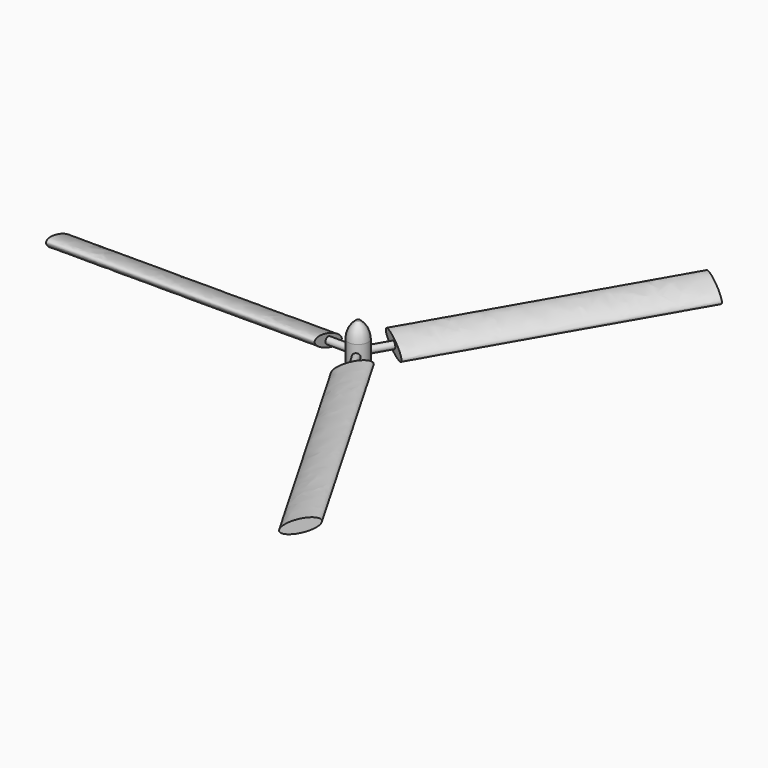
from build123d import *

# Parameters (mm, degrees)
F4_DEPTH = 135
F5_R     = 1.745374
F6_DEPTH = 15
F7_COUNT = 3
F7_ANGLE = 240
F9_DEPTH = 10


with BuildPart() as f1:
    # F0 (on Right) → F1 (revolve)
    with BuildSketch(Plane.YZ):
        with BuildLine():
            Line((0, 19.977013), (0, 0))
            Line((0, 0), (5, 0))
            Line((5, 0), (5, 11.602768))
            ThreePointArc((5, 11.602768), (3.918744, 16.125599), (0.9088, 19.670363))
            ThreePointArc((0.9088, 19.670363), (0.479571, 19.898285), (0, 19.977013))
        make_face()
    revolve(axis=Axis((0, 0, 10), (0, 0, 1)))



with BuildPart() as f4:
    # F3 (on offset) → F4 (new body)
    with BuildSketch(Plane.YZ.offset(-150)):
        with BuildLine():
            add(Edge.make_bspline(
                [(8.457234, 2.947047), (10.25751, 7.893267), (-3.328478, 10.037429), (-16.914467, 12.181591), (-5.128755, 5.091209), (6.656957, -1.999172), (8.457234, 2.947047)],
                knots=[0, 0, 0, 2.094395, 2.094395, 4.18879, 4.18879, 6.283185, 6.283185, 6.283185], degree=2, weights=[1, 0.5, 1, 0.5, 1, 0.5, 1]))
        make_face()
    extrude(amount=F4_DEPTH)


with BuildPart() as f1_1:
    add(f1.part)

    add(f4.part)  # F6 merges F4
    # F5 (on face) → F6 (join)
    with BuildSketch(Plane.YZ.offset(-15)):
        with Locations((0, 6.025229)):
            Circle(F5_R)
    extrude(amount=F6_DEPTH)

    # F7: F1 ×3 about axis
    f7_axis = Axis((0, 0, 0), (0, 0, 1))


with BuildPart() as f1_2:
    add(f1_1.part)
    for i in range(1, F7_COUNT):
        add(f1_1.part.rotate(f7_axis, i * F7_ANGLE / (F7_COUNT - 1)))

    # F8 (on face) → F9 (cut)
    with BuildSketch(Plane(origin=(0, 0, 0), x_dir=(1, 0, 0), z_dir=(0, 0, -1))):
        with BuildLine():
            Line((-1.52894, 2.533176), (-1.635552, -2.465687))
            ThreePointArc((-1.635552, -2.465687), (-0.063089, -2.958152), (1.52894, -2.533176))
            Line((1.52894, -2.533176), (1.635552, 2.465687))
            ThreePointArc((1.635552, 2.465687), (0.063089, 2.958152), (-1.52894, 2.533176))
        make_face()
    extrude(amount=-F9_DEPTH, mode=Mode.SUBTRACT)


solid = f1_2.part
